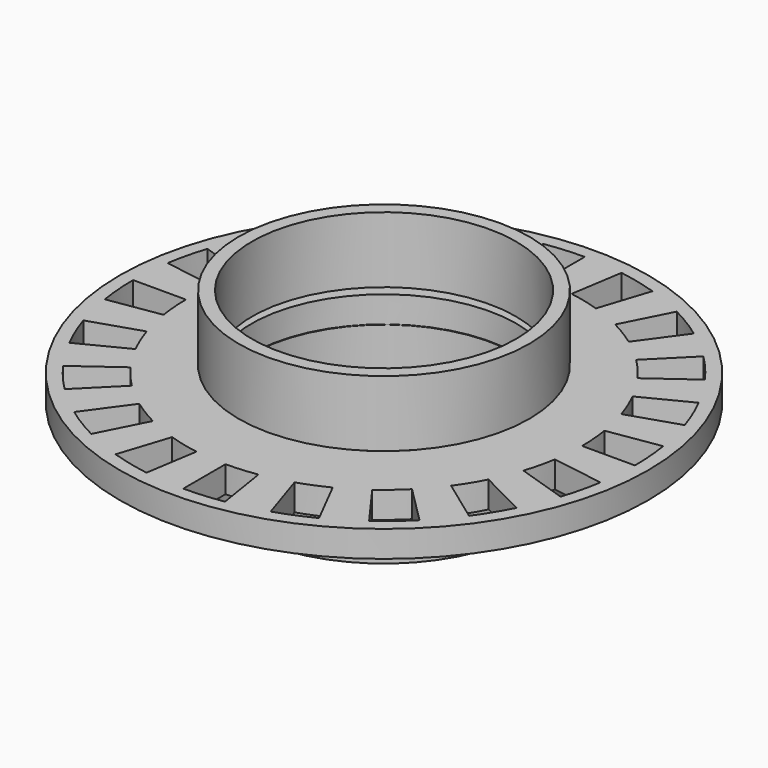
from build123d import *

# Parameters (mm, degrees)
EXTRUDE011_DEPTH           = 3
EXTRUDE011_PLACEMENT_ANGLE = 198
EXTRUDE012_DEPTH           = 3
EXTRUDE012_PLACEMENT_ANGLE = 216
EXTRUDE005_DEPTH           = 3
EXTRUDE005_PLACEMENT_ANGLE = 90
EXTRUDE007_DEPTH           = 3
EXTRUDE007_PLACEMENT_ANGLE = 126
EXTRUDE008_DEPTH           = 3
EXTRUDE008_PLACEMENT_ANGLE = 144
EXTRUDE006_DEPTH           = 3
EXTRUDE006_PLACEMENT_ANGLE = 108
EXTRUDE003_DEPTH           = 3
EXTRUDE003_PLACEMENT_ANGLE = 54
EXTRUDE004_DEPTH           = 3
EXTRUDE004_PLACEMENT_ANGLE = 72
EXTRUDE002_DEPTH           = 3
EXTRUDE002_PLACEMENT_ANGLE = 36
EXTRUDE010_DEPTH           = 3
EXTRUDE010_PLACEMENT_ANGLE = 180
EXTRUDE009_DEPTH           = 3
EXTRUDE009_PLACEMENT_ANGLE = 162
EXTRUDE016_DEPTH           = 3
EXTRUDE016_PLACEMENT_ANGLE = 72
EXTRUDE019_DEPTH           = 3
EXTRUDE019_PLACEMENT_ANGLE = 18
EXTRUDE018_DEPTH           = 3
EXTRUDE018_PLACEMENT_ANGLE = 36
EXTRUDE015_DEPTH           = 3
EXTRUDE015_PLACEMENT_ANGLE = 90
EXTRUDE017_DEPTH           = 3
EXTRUDE017_PLACEMENT_ANGLE = 54
EXTRUDE014_DEPTH           = 3
EXTRUDE014_PLACEMENT_ANGLE = 108
EXTRUDE013_DEPTH           = 3
EXTRUDE013_PLACEMENT_ANGLE = 234
EXTRUDE_DEPTH              = 3
EXTRUDE001_DEPTH           = 3
EXTRUDE001_PLACEMENT_ANGLE = 18
CYLINDER_R                 = 10.05
CYLINDER_DEPTH             = 2
CYLINDER001_R              = 20
CYLINDER001_DEPTH          = 2
CYLINDER004_R              = 10
CYLINDER004_DEPTH          = 5
CYLINDER005_R              = 11
CYLINDER005_DEPTH          = 5
CYLINDER002_R              = 10
CYLINDER002_DEPTH          = 5
CYLINDER003_R              = 11
CYLINDER003_DEPTH          = 5


with BuildPart() as extrude011:
    # Sketch001 → Extrude011 (new body)
    with BuildSketch(Plane.XY):
        with BuildLine():
            ThreePointArc((19, 0), (18.941429, 1.490723), (18.766078, 2.972255))
            Line((18.766078, 2.972255), (14.815325, 2.346517))
            ThreePointArc((15, 0), (14.95376, 1.176886), (14.815325, 2.346517))
            Line((19, 0), (15, 0))
        make_face()
    extrude(amount=EXTRUDE011_DEPTH)


with BuildPart() as extrude011_1:
    # Extrude011 placement: moved
    add(extrude011.part.rotate(Axis((0, 0, 0), (0, 0, 1)), EXTRUDE011_PLACEMENT_ANGLE))


with BuildPart() as extrude012:
    # Sketch001 → Extrude012 (new body)
    with BuildSketch(Plane.XY):
        with BuildLine():
            ThreePointArc((19, 0), (18.941429, 1.490723), (18.766078, 2.972255))
            Line((18.766078, 2.972255), (14.815325, 2.346517))
            ThreePointArc((15, 0), (14.95376, 1.176886), (14.815325, 2.346517))
            Line((19, 0), (15, 0))
        make_face()
    extrude(amount=EXTRUDE012_DEPTH)


with BuildPart() as extrude012_1:
    # Extrude012 placement: moved
    add(extrude012.part.rotate(Axis((0, 0, 0), (0, 0, 1)), EXTRUDE012_PLACEMENT_ANGLE))


with BuildPart() as extrude005:
    # Sketch001 → Extrude005 (new body)
    with BuildSketch(Plane.XY):
        with BuildLine():
            ThreePointArc((19, 0), (18.941429, 1.490723), (18.766078, 2.972255))
            Line((18.766078, 2.972255), (14.815325, 2.346517))
            ThreePointArc((15, 0), (14.95376, 1.176886), (14.815325, 2.346517))
            Line((19, 0), (15, 0))
        make_face()
    extrude(amount=EXTRUDE005_DEPTH)


with BuildPart() as extrude005_1:
    # Extrude005 placement: moved
    add(extrude005.part.rotate(Axis((0, 0, 0), (0, 0, 1)), EXTRUDE005_PLACEMENT_ANGLE))


with BuildPart() as extrude007:
    # Sketch001 → Extrude007 (new body)
    with BuildSketch(Plane.XY):
        with BuildLine():
            ThreePointArc((19, 0), (18.941429, 1.490723), (18.766078, 2.972255))
            Line((18.766078, 2.972255), (14.815325, 2.346517))
            ThreePointArc((15, 0), (14.95376, 1.176886), (14.815325, 2.346517))
            Line((19, 0), (15, 0))
        make_face()
    extrude(amount=EXTRUDE007_DEPTH)


with BuildPart() as extrude007_1:
    # Extrude007 placement: moved
    add(extrude007.part.rotate(Axis((0, 0, 0), (0, 0, 1)), EXTRUDE007_PLACEMENT_ANGLE))


with BuildPart() as extrude008:
    # Sketch001 → Extrude008 (new body)
    with BuildSketch(Plane.XY):
        with BuildLine():
            ThreePointArc((19, 0), (18.941429, 1.490723), (18.766078, 2.972255))
            Line((18.766078, 2.972255), (14.815325, 2.346517))
            ThreePointArc((15, 0), (14.95376, 1.176886), (14.815325, 2.346517))
            Line((19, 0), (15, 0))
        make_face()
    extrude(amount=EXTRUDE008_DEPTH)


with BuildPart() as extrude008_1:
    # Extrude008 placement: moved
    add(extrude008.part.rotate(Axis((0, 0, 0), (0, 0, 1)), EXTRUDE008_PLACEMENT_ANGLE))


with BuildPart() as extrude006:
    # Sketch001 → Extrude006 (new body)
    with BuildSketch(Plane.XY):
        with BuildLine():
            ThreePointArc((19, 0), (18.941429, 1.490723), (18.766078, 2.972255))
            Line((18.766078, 2.972255), (14.815325, 2.346517))
            ThreePointArc((15, 0), (14.95376, 1.176886), (14.815325, 2.346517))
            Line((19, 0), (15, 0))
        make_face()
    extrude(amount=EXTRUDE006_DEPTH)


with BuildPart() as extrude006_1:
    # Extrude006 placement: moved
    add(extrude006.part.rotate(Axis((0, 0, 0), (0, 0, 1)), EXTRUDE006_PLACEMENT_ANGLE))


with BuildPart() as extrude003:
    # Sketch001 → Extrude003 (new body)
    with BuildSketch(Plane.XY):
        with BuildLine():
            ThreePointArc((19, 0), (18.941429, 1.490723), (18.766078, 2.972255))
            Line((18.766078, 2.972255), (14.815325, 2.346517))
            ThreePointArc((15, 0), (14.95376, 1.176886), (14.815325, 2.346517))
            Line((19, 0), (15, 0))
        make_face()
    extrude(amount=EXTRUDE003_DEPTH)


with BuildPart() as extrude003_1:
    # Extrude003 placement: moved
    add(extrude003.part.rotate(Axis((0, 0, 0), (0, 0, 1)), EXTRUDE003_PLACEMENT_ANGLE))


with BuildPart() as extrude004:
    # Sketch001 → Extrude004 (new body)
    with BuildSketch(Plane.XY):
        with BuildLine():
            ThreePointArc((19, 0), (18.941429, 1.490723), (18.766078, 2.972255))
            Line((18.766078, 2.972255), (14.815325, 2.346517))
            ThreePointArc((15, 0), (14.95376, 1.176886), (14.815325, 2.346517))
            Line((19, 0), (15, 0))
        make_face()
    extrude(amount=EXTRUDE004_DEPTH)


with BuildPart() as extrude004_1:
    # Extrude004 placement: moved
    add(extrude004.part.rotate(Axis((0, 0, 0), (0, 0, 1)), EXTRUDE004_PLACEMENT_ANGLE))


with BuildPart() as extrude002:
    # Sketch001 → Extrude002 (new body)
    with BuildSketch(Plane.XY):
        with BuildLine():
            ThreePointArc((19, 0), (18.941429, 1.490723), (18.766078, 2.972255))
            Line((18.766078, 2.972255), (14.815325, 2.346517))
            ThreePointArc((15, 0), (14.95376, 1.176886), (14.815325, 2.346517))
            Line((19, 0), (15, 0))
        make_face()
    extrude(amount=EXTRUDE002_DEPTH)


with BuildPart() as extrude002_1:
    # Extrude002 placement: moved
    add(extrude002.part.rotate(Axis((0, 0, 0), (0, 0, 1)), EXTRUDE002_PLACEMENT_ANGLE))


with BuildPart() as extrude010:
    # Sketch001 → Extrude010 (new body)
    with BuildSketch(Plane.XY):
        with BuildLine():
            ThreePointArc((19, 0), (18.941429, 1.490723), (18.766078, 2.972255))
            Line((18.766078, 2.972255), (14.815325, 2.346517))
            ThreePointArc((15, 0), (14.95376, 1.176886), (14.815325, 2.346517))
            Line((19, 0), (15, 0))
        make_face()
    extrude(amount=EXTRUDE010_DEPTH)


with BuildPart() as extrude010_1:
    # Extrude010 placement: moved
    add(extrude010.part.rotate(Axis((0, 0, 0), (0, 0, 1)), EXTRUDE010_PLACEMENT_ANGLE))


with BuildPart() as extrude009:
    # Sketch001 → Extrude009 (new body)
    with BuildSketch(Plane.XY):
        with BuildLine():
            ThreePointArc((19, 0), (18.941429, 1.490723), (18.766078, 2.972255))
            Line((18.766078, 2.972255), (14.815325, 2.346517))
            ThreePointArc((15, 0), (14.95376, 1.176886), (14.815325, 2.346517))
            Line((19, 0), (15, 0))
        make_face()
    extrude(amount=EXTRUDE009_DEPTH)


with BuildPart() as extrude009_1:
    # Extrude009 placement: moved
    add(extrude009.part.rotate(Axis((0, 0, 0), (0, 0, 1)), EXTRUDE009_PLACEMENT_ANGLE))


with BuildPart() as extrude016:
    # Sketch001 → Extrude016 (new body)
    with BuildSketch(Plane.XY):
        with BuildLine():
            ThreePointArc((19, 0), (18.941429, 1.490723), (18.766078, 2.972255))
            Line((18.766078, 2.972255), (14.815325, 2.346517))
            ThreePointArc((15, 0), (14.95376, 1.176886), (14.815325, 2.346517))
            Line((19, 0), (15, 0))
        make_face()
    extrude(amount=EXTRUDE016_DEPTH)


with BuildPart() as extrude016_1:
    # Extrude016 placement: moved
    add(extrude016.part.rotate(Axis((0, 0, 0), (0, 0, -1)), EXTRUDE016_PLACEMENT_ANGLE))


with BuildPart() as extrude019:
    # Sketch001 → Extrude019 (new body)
    with BuildSketch(Plane.XY):
        with BuildLine():
            ThreePointArc((19, 0), (18.941429, 1.490723), (18.766078, 2.972255))
            Line((18.766078, 2.972255), (14.815325, 2.346517))
            ThreePointArc((15, 0), (14.95376, 1.176886), (14.815325, 2.346517))
            Line((19, 0), (15, 0))
        make_face()
    extrude(amount=EXTRUDE019_DEPTH)


with BuildPart() as extrude019_1:
    # Extrude019 placement: moved
    add(extrude019.part.rotate(Axis((0, 0, 0), (0, 0, -1)), EXTRUDE019_PLACEMENT_ANGLE))


with BuildPart() as extrude018:
    # Sketch001 → Extrude018 (new body)
    with BuildSketch(Plane.XY):
        with BuildLine():
            ThreePointArc((19, 0), (18.941429, 1.490723), (18.766078, 2.972255))
            Line((18.766078, 2.972255), (14.815325, 2.346517))
            ThreePointArc((15, 0), (14.95376, 1.176886), (14.815325, 2.346517))
            Line((19, 0), (15, 0))
        make_face()
    extrude(amount=EXTRUDE018_DEPTH)


with BuildPart() as extrude018_1:
    # Extrude018 placement: moved
    add(extrude018.part.rotate(Axis((0, 0, 0), (0, 0, -1)), EXTRUDE018_PLACEMENT_ANGLE))


with BuildPart() as extrude015:
    # Sketch001 → Extrude015 (new body)
    with BuildSketch(Plane.XY):
        with BuildLine():
            ThreePointArc((19, 0), (18.941429, 1.490723), (18.766078, 2.972255))
            Line((18.766078, 2.972255), (14.815325, 2.346517))
            ThreePointArc((15, 0), (14.95376, 1.176886), (14.815325, 2.346517))
            Line((19, 0), (15, 0))
        make_face()
    extrude(amount=EXTRUDE015_DEPTH)


with BuildPart() as extrude015_1:
    # Extrude015 placement: moved
    add(extrude015.part.rotate(Axis((0, 0, 0), (0, 0, -1)), EXTRUDE015_PLACEMENT_ANGLE))


with BuildPart() as extrude017:
    # Sketch001 → Extrude017 (new body)
    with BuildSketch(Plane.XY):
        with BuildLine():
            ThreePointArc((19, 0), (18.941429, 1.490723), (18.766078, 2.972255))
            Line((18.766078, 2.972255), (14.815325, 2.346517))
            ThreePointArc((15, 0), (14.95376, 1.176886), (14.815325, 2.346517))
            Line((19, 0), (15, 0))
        make_face()
    extrude(amount=EXTRUDE017_DEPTH)


with BuildPart() as extrude017_1:
    # Extrude017 placement: moved
    add(extrude017.part.rotate(Axis((0, 0, 0), (0, 0, -1)), EXTRUDE017_PLACEMENT_ANGLE))


with BuildPart() as extrude014:
    # Sketch001 → Extrude014 (new body)
    with BuildSketch(Plane.XY):
        with BuildLine():
            ThreePointArc((19, 0), (18.941429, 1.490723), (18.766078, 2.972255))
            Line((18.766078, 2.972255), (14.815325, 2.346517))
            ThreePointArc((15, 0), (14.95376, 1.176886), (14.815325, 2.346517))
            Line((19, 0), (15, 0))
        make_face()
    extrude(amount=EXTRUDE014_DEPTH)


with BuildPart() as extrude014_1:
    # Extrude014 placement: moved
    add(extrude014.part.rotate(Axis((0, 0, 0), (0, 0, -1)), EXTRUDE014_PLACEMENT_ANGLE))


with BuildPart() as extrude013:
    # Sketch001 → Extrude013 (new body)
    with BuildSketch(Plane.XY):
        with BuildLine():
            ThreePointArc((19, 0), (18.941429, 1.490723), (18.766078, 2.972255))
            Line((18.766078, 2.972255), (14.815325, 2.346517))
            ThreePointArc((15, 0), (14.95376, 1.176886), (14.815325, 2.346517))
            Line((19, 0), (15, 0))
        make_face()
    extrude(amount=EXTRUDE013_DEPTH)


with BuildPart() as extrude013_1:
    # Extrude013 placement: moved
    add(extrude013.part.rotate(Axis((0, 0, 0), (0, 0, 1)), EXTRUDE013_PLACEMENT_ANGLE))


with BuildPart() as extrude_body:
    # Sketch001 → Extrude (new body)
    with BuildSketch(Plane.XY):
        with BuildLine():
            ThreePointArc((19, 0), (18.941429, 1.490723), (18.766078, 2.972255))
            Line((18.766078, 2.972255), (14.815325, 2.346517))
            ThreePointArc((15, 0), (14.95376, 1.176886), (14.815325, 2.346517))
            Line((19, 0), (15, 0))
        make_face()
    extrude(amount=EXTRUDE_DEPTH)


with BuildPart() as fusion:
    # Sketch001 → Extrude001 (new body)
    with BuildSketch(Plane.XY):
        with BuildLine():
            ThreePointArc((19, 0), (18.941429, 1.490723), (18.766078, 2.972255))
            Line((18.766078, 2.972255), (14.815325, 2.346517))
            ThreePointArc((15, 0), (14.95376, 1.176886), (14.815325, 2.346517))
            Line((19, 0), (15, 0))
        make_face()
    extrude(amount=EXTRUDE001_DEPTH)


with BuildPart() as fusion_1:
    # Extrude001 placement: moved
    add(fusion.part.rotate(Axis((0, 0, 0), (0, 0, 1)), EXTRUDE001_PLACEMENT_ANGLE))

    # Fusion: union Extrude011, Extrude012, Extrude005, Extrude007, Extrude008, Extrude006, Extrude003, Extrude004, Extrude002, Extrude010, Extrude009, Extrude016, Extrude019, Extrude018, Extrude015, Extrude017, Extrude014, Extrude013, Extrude body
    add(extrude011_1.part)
    add(extrude012_1.part)
    add(extrude005_1.part)
    add(extrude007_1.part)
    add(extrude008_1.part)
    add(extrude006_1.part)
    add(extrude003_1.part)
    add(extrude004_1.part)
    add(extrude002_1.part)
    add(extrude010_1.part)
    add(extrude009_1.part)
    add(extrude016_1.part)
    add(extrude019_1.part)
    add(extrude018_1.part)
    add(extrude015_1.part)
    add(extrude017_1.part)
    add(extrude014_1.part)
    add(extrude013_1.part)
    add(extrude_body.part)


with BuildPart() as zylinder:
    # Cylinder → Cylinder (new body)
    with BuildSketch(Plane.XY):
        Circle(CYLINDER_R)
    extrude(amount=CYLINDER_DEPTH)


with BuildPart() as cut001:
    # Cylinder001 → Cylinder001 (new body)
    with BuildSketch(Plane.XY):
        Circle(CYLINDER001_R)
    extrude(amount=CYLINDER001_DEPTH)

    # Cut: cut Zylinder
    add(zylinder.part, mode=Mode.SUBTRACT)

    # Cut001: cut Fusion
    add(fusion_1.part, mode=Mode.SUBTRACT)


with BuildPart() as zylinder004:
    # Cylinder004 → Cylinder004 (new body)
    with BuildSketch(Plane(origin=(40, 0, 0), x_dir=(1, 0, 0), z_dir=(0, 0, 1))):
        Circle(CYLINDER004_R)
    extrude(amount=CYLINDER004_DEPTH)


with BuildPart() as cut003:
    # Cylinder005 → Cylinder005 (new body)
    with BuildSketch(Plane(origin=(40, 0, 0), x_dir=(1, 0, 0), z_dir=(0, 0, 1))):
        Circle(CYLINDER005_R)
    extrude(amount=CYLINDER005_DEPTH)

    # Cut003: cut Zylinder004
    add(zylinder004.part, mode=Mode.SUBTRACT)


with BuildPart() as cut003_1:
    # Cut003 placement: moved
    add(cut003.part.moved(Location((-40, 0, 2.5))))


with BuildPart() as zylinder002:
    # Cylinder002 → Cylinder002 (new body)
    with BuildSketch(Plane(origin=(40, 0, 0), x_dir=(1, 0, 0), z_dir=(0, 0, 1))):
        Circle(CYLINDER002_R)
    extrude(amount=CYLINDER002_DEPTH)


with BuildPart() as cut002:
    # Cylinder003 → Cylinder003 (new body)
    with BuildSketch(Plane(origin=(40, 0, 0), x_dir=(1, 0, 0), z_dir=(0, 0, 1))):
        Circle(CYLINDER003_R)
    extrude(amount=CYLINDER003_DEPTH)

    # Cut002: cut Zylinder002
    add(zylinder002.part, mode=Mode.SUBTRACT)


with BuildPart() as cut002_1:
    # Cut002 placement: moved
    add(cut002.part.moved(Location((-40, 0, -5))))


solid = Compound([cut001.part, cut003_1.part, cut002_1.part])
